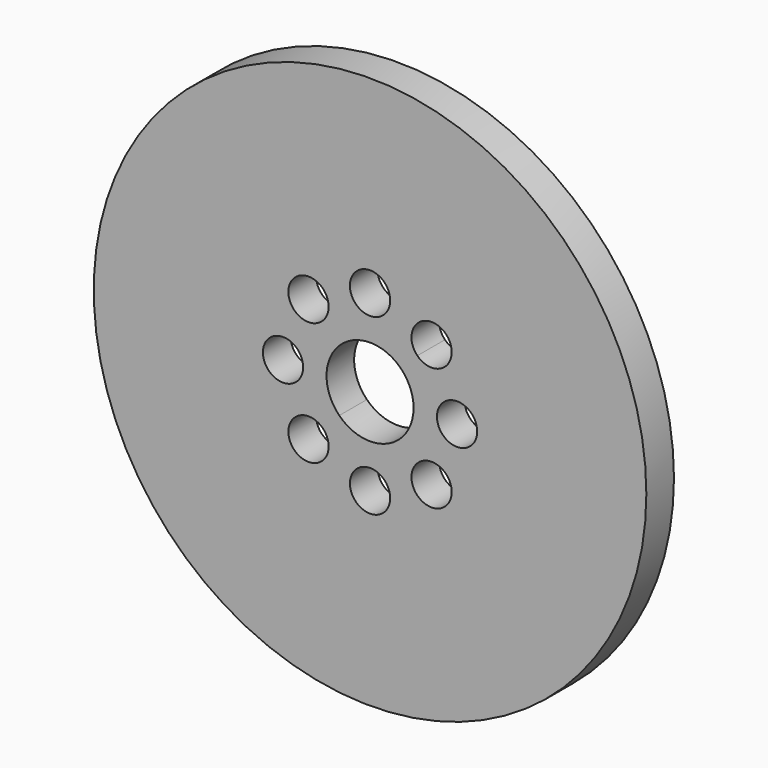
from build123d import *

# Parameters (mm, degrees)
F0_R     = 25.4
F0_R_2   = 1.85
F1_DEPTH = 3.175


with BuildPart() as f1:
    # F0 (on Front) → F1 (new body)
    with BuildSketch(Plane.XZ):
        Circle(F0_R)
        with Locations((0, -8)):
            Circle(F0_R_2, mode=Mode.SUBTRACT)
        with Locations((-8, 0)):
            Circle(F0_R_2, mode=Mode.SUBTRACT)
        with BuildLine():
            ThreePointArc((-3.806854, -5.656854), (-7.366031, -6.364819), (-4.348707, -4.348707))
            ThreePointArc((-4.348707, -4.348707), (-3.947677, -4.94889), (-3.806854, -5.656854))
        make_face(mode=Mode.SUBTRACT)
        with BuildLine():
            ThreePointArc((2.828427, 2.828427), (3.695518, 1.530734), (4, 0))
            ThreePointArc((4, 0), (1.530734, -3.695518), (-2.828427, -2.828427))
            ThreePointArc((-2.828427, -2.828427), (-2.828427, 2.828427), (2.828427, 2.828427))
        make_face(mode=Mode.SUBTRACT)
        with Locations((5.656854, -5.656854)):
            Circle(F0_R_2, mode=Mode.SUBTRACT)
        with Locations((8, 0)):
            Circle(F0_R_2, mode=Mode.SUBTRACT)
        with Locations((-5.656854, 5.656854)):
            Circle(F0_R_2, mode=Mode.SUBTRACT)
        with Locations((0, 8)):
            Circle(F0_R_2, mode=Mode.SUBTRACT)
        with BuildLine():
            ThreePointArc((7.506854, 5.656854), (6.364819, 3.947677), (4.348707, 4.348707))
            ThreePointArc((4.348707, 4.348707), (4.94889, 7.366031), (7.506854, 5.656854))
        make_face(mode=Mode.SUBTRACT)
    extrude(amount=F1_DEPTH)


solid = f1.part
